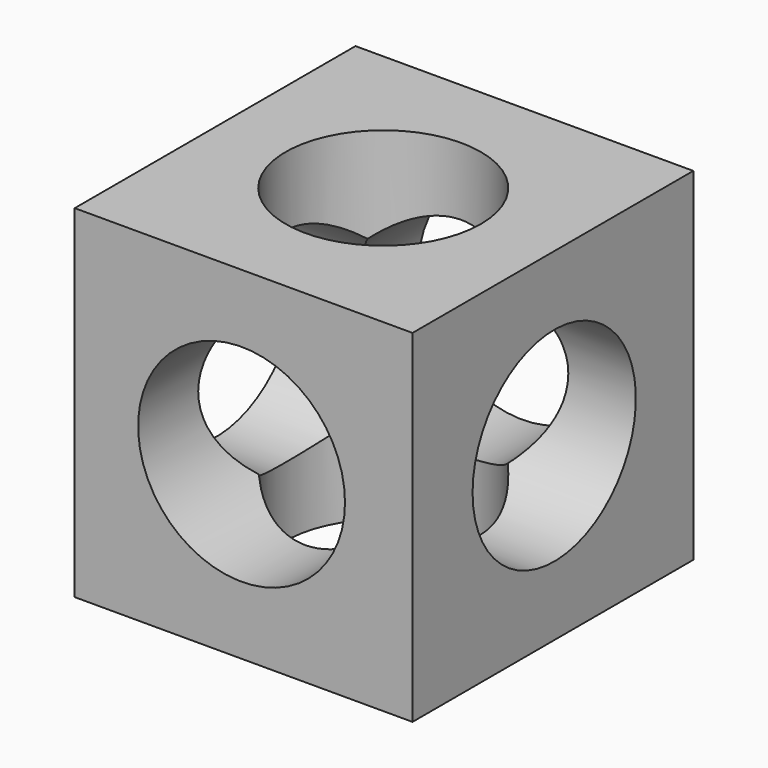
from build123d import *

# Parameters (mm, degrees)
F0_W     = 125.2728067338
F0_H     = 130.14960289
F1_DEPTH = 63.5
F2_R     = 36.211280233
F3_DEPTH = 127.001
F4_R     = 37.8434080408
F5_DEPTH = 125.2738067338
F6_R     = 38.3562635603
F7_DEPTH = 130.15060289


with BuildPart() as f1:
    # F0 (on Top) → F1 (new body, symmetric)
    with BuildSketch(Plane.XY):
        with Locations((0.7620025426, -0.6095990539)):
            Rectangle(F0_W, F0_H)
    extrude(amount=F1_DEPTH, both=True)

    # F2 (on face) → F3 (cut, through all)
    with BuildSketch(Plane.XY.offset(63.5)):
        Circle(F2_R)
    extrude(amount=-F3_DEPTH, mode=Mode.SUBTRACT)

    # F4 (on face) → F5 (cut, through all)
    with BuildSketch(Plane(origin=(-61.8744008243, 0, 0), x_dir=(0, -1, 0), z_dir=(-1, 0, 0))):
        Circle(F4_R)
    extrude(amount=-F5_DEPTH, mode=Mode.SUBTRACT)

    # F6 (on face) → F7 (cut, through all)
    with BuildSketch(Plane.XZ.offset(65.6844004989)):
        Circle(F6_R)
    extrude(amount=-F7_DEPTH, mode=Mode.SUBTRACT)


solid = f1.part
